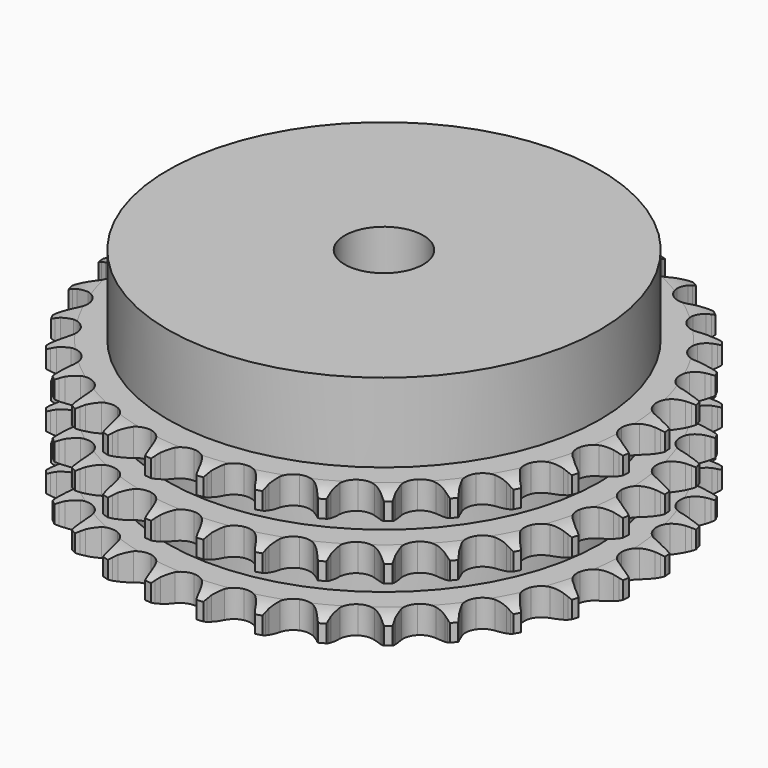
from build123d import *

# Parameters (mm, degrees)
PAD_DEPTH         = 34.9
SKETCH001_R       = 55
PAD001_DEPTH      = 55
SKETCH002_R       = 10
POCKET_DEPTH      = 0.001
POCKET_DEPTH_BACK = 55.001


with BuildPart() as part:
    # Sprocket → Pad (new body)
    with BuildSketch(Plane.XY):
        with BuildLine():
            ThreePointArc((-6.722983, 68.259588), (-5.947068, 67.220529), (-5.378585, 66.054975))
            Line((-5.378585, 66.054975), (-4.96346, 64.952015))
            ThreePointArc((-4.96346, 64.952015), (-4.305248, 63.520135), (-3.451269, 62.195655))
            ThreePointArc((-3.451269, 62.195655), (-1.929275, 60.925607), (0, 60.470212))
            ThreePointArc((0, 60.470212), (1.929275, 60.925607), (3.451269, 62.195655))
            ThreePointArc((3.451269, 62.195655), (4.305248, 63.520135), (4.96346, 64.952015))
            Line((4.96346, 64.952015), (5.378585, 66.054975))
            ThreePointArc((5.378585, 66.054975), (5.947068, 67.220529), (6.722983, 68.259588))
            ThreePointArc((6.722983, 68.259588), (7.281278, 67.089121), (7.611449, 65.835057))
            Line((7.611449, 65.835057), (7.803421, 64.672304))
            ThreePointArc((7.803421, 64.672304), (8.16964, 63.139526), (8.748816, 61.673892))
            ThreePointArc((8.748816, 61.673892), (9.993791, 60.131322), (11.797153, 59.308294))
            ThreePointArc((11.797153, 59.308294), (13.778201, 59.378556), (15.518725, 60.327274))
            Line((15.518725, 60.327274), (17.539599, 62.735657))
            ThreePointArc((17.539599, 62.735657), (17.837497, 63.244296), (18.161923, 63.736437))
            ThreePointArc((18.161923, 63.736437), (18.946871, 64.76869), (19.910587, 65.63641))
            ThreePointArc((19.910587, 65.63641), (20.229809, 64.379515), (20.30898, 63.085135))
            Line((20.30898, 63.085135), (20.270421, 61.907272))
            ThreePointArc((20.270421, 61.907272), (20.330573, 60.3325), (20.61269, 58.782036))
            ThreePointArc((20.61269, 58.782036), (21.532803, 57.026223), (23.140948, 55.867192))
            ThreePointArc((23.140948, 55.867192), (25.097638, 55.54962), (26.989804, 56.140549))
            Line((26.989804, 56.140549), (29.4417, 58.108403))
            ThreePointArc((29.4417, 58.108403), (29.833104, 58.549151), (30.247309, 58.968544))
            ThreePointArc((30.247309, 58.968544), (31.218557, 59.827827), (32.333039, 60.490862))
            ThreePointArc((32.333039, 60.490862), (32.400919, 59.195841), (32.226048, 57.910886))
            Line((32.226048, 57.910886), (31.95844, 56.763178))
            ThreePointArc((31.95844, 56.763178), (31.710214, 55.206929), (31.684429, 53.63122))
            ThreePointArc((31.684429, 53.63122), (32.24432, 51.729639), (33.59545, 50.279144))
            ThreePointArc((33.59545, 50.279144), (35.452588, 49.585943), (37.42368, 49.796375))
            Line((37.42368, 49.796375), (40.212373, 51.248076))
            ThreePointArc((40.212373, 51.248076), (40.682242, 51.603996), (41.170308, 51.934523))
            ThreePointArc((41.170308, 51.934523), (42.290531, 52.587813), (43.512951, 53.020684))
            ThreePointArc((43.512951, 53.020684), (43.32688, 51.737304), (42.904687, 50.511155))
            Line((42.904687, 50.511155), (42.418314, 49.437707))
            ThreePointArc((42.418314, 49.437707), (41.871248, 47.959788), (41.538553, 46.419386))
            ThreePointArc((41.538553, 46.419386), (41.716706, 44.445114), (42.758897, 42.758897))
            ThreePointArc((42.758897, 42.758897), (44.445114, 41.716706), (46.419386, 41.538553))
            Line((46.419386, 41.538553), (49.437707, 42.418314))
            ThreePointArc((49.437707, 42.418314), (49.967985, 42.675728), (50.511155, 42.904687))
            ThreePointArc((50.511155, 42.904687), (51.737304, 43.32688), (53.020684, 43.512951))
            ThreePointArc((53.020684, 43.512951), (52.587813, 42.290531), (51.934523, 41.170308))
            Line((51.934523, 41.170308), (51.248076, 40.212373))
            ThreePointArc((51.248076, 40.212373), (50.423195, 38.869579), (49.796375, 37.42368))
            ThreePointArc((49.796375, 37.42368), (49.585943, 35.452588), (50.279144, 33.59545))
            ThreePointArc((50.279144, 33.59545), (51.729639, 32.24432), (53.63122, 31.684429))
            Line((53.63122, 31.684429), (56.763178, 31.95844))
            ThreePointArc((56.763178, 31.95844), (57.333485, 32.107455), (57.910886, 32.226048))
            ThreePointArc((57.910886, 32.226048), (59.195841, 32.400919), (60.490862, 32.333039))
            ThreePointArc((60.490862, 32.333039), (59.827827, 31.218557), (58.968544, 30.247309))
            Line((58.968544, 30.247309), (58.108403, 29.4417))
            ThreePointArc((58.108403, 29.4417), (57.037406, 28.285633), (56.140549, 26.989804))
            ThreePointArc((56.140549, 26.989804), (55.54962, 25.097638), (55.867192, 23.140948))
            ThreePointArc((55.867192, 23.140948), (57.026223, 21.532803), (58.782036, 20.61269))
            Line((58.782036, 20.61269), (61.907272, 20.270421))
            ThreePointArc((61.907272, 20.270421), (62.495692, 20.305312), (63.085135, 20.30898))
            ThreePointArc((63.085135, 20.30898), (64.379515, 20.229809), (65.63641, 19.910587))
            ThreePointArc((65.63641, 19.910587), (64.76869, 18.946871), (63.736437, 18.161923))
            Line((63.736437, 18.161923), (62.735657, 17.539599))
            ThreePointArc((62.735657, 17.539599), (61.459701, 16.614687), (60.327274, 15.518725))
            ThreePointArc((60.327274, 15.518725), (59.378556, 13.778201), (59.308294, 11.797153))
            ThreePointArc((59.308294, 11.797153), (60.131322, 9.993791), (61.673892, 8.748816))
            Line((61.673892, 8.748816), (64.672304, 7.803421))
            ThreePointArc((64.672304, 7.803421), (65.256225, 7.722846), (65.835057, 7.611449))
            ThreePointArc((65.835057, 7.611449), (67.089121, 7.281278), (68.259588, 6.722983))
            ThreePointArc((68.259588, 6.722983), (67.220529, 5.947068), (66.054975, 5.378585))
            Line((66.054975, 5.378585), (64.952015, 4.96346))
            ThreePointArc((64.952015, 4.96346), (63.520135, 4.305248), (62.195655, 3.451269))
            ThreePointArc((62.195655, 3.451269), (60.925607, 1.929275), (60.470212, 0))
            ThreePointArc((60.470212, 0), (60.925607, -1.929275), (62.195655, -3.451269))
            Line((62.195655, -3.451269), (64.952015, -4.96346))
            ThreePointArc((64.952015, -4.96346), (65.508997, -5.156404), (66.054975, -5.378585))
            ThreePointArc((66.054975, -5.378585), (67.220529, -5.947068), (68.259588, -6.722983))
            ThreePointArc((68.259588, -6.722983), (67.089121, -7.281278), (65.835057, -7.611449))
            Line((65.835057, -7.611449), (64.672304, -7.803421))
            ThreePointArc((64.672304, -7.803421), (63.139526, -8.16964), (61.673892, -8.748816))
            ThreePointArc((61.673892, -8.748816), (60.131322, -9.993791), (59.308294, -11.797153))
            ThreePointArc((59.308294, -11.797153), (59.378556, -13.778201), (60.327274, -15.518725))
            Line((60.327274, -15.518725), (62.735657, -17.539599))
            ThreePointArc((62.735657, -17.539599), (63.244296, -17.837497), (63.736437, -18.161923))
            ThreePointArc((63.736437, -18.161923), (64.76869, -18.946871), (65.63641, -19.910587))
            ThreePointArc((65.63641, -19.910587), (64.379515, -20.229809), (63.085135, -20.30898))
            Line((63.085135, -20.30898), (61.907272, -20.270421))
            ThreePointArc((61.907272, -20.270421), (60.3325, -20.330573), (58.782036, -20.61269))
            ThreePointArc((58.782036, -20.61269), (57.026223, -21.532803), (55.867192, -23.140948))
            ThreePointArc((55.867192, -23.140948), (55.54962, -25.097638), (56.140549, -26.989804))
            Line((56.140549, -26.989804), (58.108403, -29.4417))
            ThreePointArc((58.108403, -29.4417), (58.549151, -29.833104), (58.968544, -30.247309))
            ThreePointArc((58.968544, -30.247309), (59.827827, -31.218557), (60.490862, -32.333039))
            ThreePointArc((60.490862, -32.333039), (59.195841, -32.400919), (57.910886, -32.226048))
            Line((57.910886, -32.226048), (56.763178, -31.95844))
            ThreePointArc((56.763178, -31.95844), (55.206929, -31.710214), (53.63122, -31.684429))
            ThreePointArc((53.63122, -31.684429), (51.729639, -32.24432), (50.279144, -33.59545))
            ThreePointArc((50.279144, -33.59545), (49.585943, -35.452588), (49.796375, -37.42368))
            Line((49.796375, -37.42368), (51.248076, -40.212373))
            ThreePointArc((51.248076, -40.212373), (51.603996, -40.682242), (51.934523, -41.170308))
            ThreePointArc((51.934523, -41.170308), (52.587813, -42.290531), (53.020684, -43.512951))
            ThreePointArc((53.020684, -43.512951), (51.737304, -43.32688), (50.511155, -42.904687))
            Line((50.511155, -42.904687), (49.437707, -42.418314))
            ThreePointArc((49.437707, -42.418314), (47.959788, -41.871248), (46.419386, -41.538553))
            ThreePointArc((46.419386, -41.538553), (44.445114, -41.716706), (42.758897, -42.758897))
            ThreePointArc((42.758897, -42.758897), (41.716706, -44.445114), (41.538553, -46.419386))
            Line((41.538553, -46.419386), (42.418314, -49.437707))
            ThreePointArc((42.418314, -49.437707), (42.675728, -49.967985), (42.904687, -50.511155))
            ThreePointArc((42.904687, -50.511155), (43.32688, -51.737304), (43.512951, -53.020684))
            ThreePointArc((43.512951, -53.020684), (42.290531, -52.587813), (41.170308, -51.934523))
            Line((41.170308, -51.934523), (40.212373, -51.248076))
            ThreePointArc((40.212373, -51.248076), (38.869579, -50.423195), (37.42368, -49.796375))
            ThreePointArc((37.42368, -49.796375), (35.452588, -49.585943), (33.59545, -50.279144))
            ThreePointArc((33.59545, -50.279144), (32.24432, -51.729639), (31.684429, -53.63122))
            Line((31.684429, -53.63122), (31.95844, -56.763178))
            ThreePointArc((31.95844, -56.763178), (32.107455, -57.333485), (32.226048, -57.910886))
            ThreePointArc((32.226048, -57.910886), (32.400919, -59.195841), (32.333039, -60.490862))
            ThreePointArc((32.333039, -60.490862), (31.218557, -59.827827), (30.247309, -58.968544))
            Line((30.247309, -58.968544), (29.4417, -58.108403))
            ThreePointArc((29.4417, -58.108403), (28.285633, -57.037406), (26.989804, -56.140549))
            ThreePointArc((26.989804, -56.140549), (25.097638, -55.54962), (23.140948, -55.867192))
            ThreePointArc((23.140948, -55.867192), (21.532803, -57.026223), (20.61269, -58.782036))
            Line((20.61269, -58.782036), (20.270421, -61.907272))
            ThreePointArc((20.270421, -61.907272), (20.305312, -62.495692), (20.30898, -63.085135))
            ThreePointArc((20.30898, -63.085135), (20.229809, -64.379515), (19.910587, -65.63641))
            ThreePointArc((19.910587, -65.63641), (18.946871, -64.76869), (18.161923, -63.736437))
            Line((18.161923, -63.736437), (17.539599, -62.735657))
            ThreePointArc((17.539599, -62.735657), (16.614687, -61.459701), (15.518725, -60.327274))
            ThreePointArc((15.518725, -60.327274), (13.778201, -59.378556), (11.797153, -59.308294))
            ThreePointArc((11.797153, -59.308294), (9.993791, -60.131322), (8.748816, -61.673892))
            Line((8.748816, -61.673892), (7.803421, -64.672304))
            ThreePointArc((7.803421, -64.672304), (7.722846, -65.256225), (7.611449, -65.835057))
            ThreePointArc((7.611449, -65.835057), (7.281278, -67.089121), (6.722983, -68.259588))
            ThreePointArc((6.722983, -68.259588), (5.947068, -67.220529), (5.378585, -66.054975))
            Line((5.378585, -66.054975), (4.96346, -64.952015))
            ThreePointArc((4.96346, -64.952015), (4.305248, -63.520135), (3.451269, -62.195655))
            ThreePointArc((3.451269, -62.195655), (1.929275, -60.925607), (0, -60.470212))
            ThreePointArc((0, -60.470212), (-1.929275, -60.925607), (-3.451269, -62.195655))
            Line((-3.451269, -62.195655), (-4.96346, -64.952015))
            ThreePointArc((-4.96346, -64.952015), (-5.156404, -65.508997), (-5.378585, -66.054975))
            ThreePointArc((-5.378585, -66.054975), (-5.947068, -67.220529), (-6.722983, -68.259588))
            ThreePointArc((-6.722983, -68.259588), (-7.281278, -67.089121), (-7.611449, -65.835057))
            Line((-7.611449, -65.835057), (-7.803421, -64.672304))
            ThreePointArc((-7.803421, -64.672304), (-8.16964, -63.139526), (-8.748816, -61.673892))
            ThreePointArc((-8.748816, -61.673892), (-9.993791, -60.131322), (-11.797153, -59.308294))
            ThreePointArc((-11.797153, -59.308294), (-13.778201, -59.378556), (-15.518725, -60.327274))
            Line((-15.518725, -60.327274), (-17.539599, -62.735657))
            ThreePointArc((-17.539599, -62.735657), (-17.837497, -63.244296), (-18.161923, -63.736437))
            ThreePointArc((-18.161923, -63.736437), (-18.946871, -64.76869), (-19.910587, -65.63641))
            ThreePointArc((-19.910587, -65.63641), (-20.229809, -64.379515), (-20.30898, -63.085135))
            Line((-20.30898, -63.085135), (-20.270421, -61.907272))
            ThreePointArc((-20.270421, -61.907272), (-20.330573, -60.3325), (-20.61269, -58.782036))
            ThreePointArc((-20.61269, -58.782036), (-21.532803, -57.026223), (-23.140948, -55.867192))
            ThreePointArc((-23.140948, -55.867192), (-25.097638, -55.54962), (-26.989804, -56.140549))
            Line((-26.989804, -56.140549), (-29.4417, -58.108403))
            ThreePointArc((-29.4417, -58.108403), (-29.833104, -58.549151), (-30.247309, -58.968544))
            ThreePointArc((-30.247309, -58.968544), (-31.218557, -59.827827), (-32.333039, -60.490862))
            ThreePointArc((-32.333039, -60.490862), (-32.400919, -59.195841), (-32.226048, -57.910886))
            Line((-32.226048, -57.910886), (-31.95844, -56.763178))
            ThreePointArc((-31.95844, -56.763178), (-31.710214, -55.206929), (-31.684429, -53.63122))
            ThreePointArc((-31.684429, -53.63122), (-32.24432, -51.729639), (-33.59545, -50.279144))
            ThreePointArc((-33.59545, -50.279144), (-35.452588, -49.585943), (-37.42368, -49.796375))
            Line((-37.42368, -49.796375), (-40.212373, -51.248076))
            ThreePointArc((-40.212373, -51.248076), (-40.682242, -51.603996), (-41.170308, -51.934523))
            ThreePointArc((-41.170308, -51.934523), (-42.290531, -52.587813), (-43.512951, -53.020684))
            ThreePointArc((-43.512951, -53.020684), (-43.32688, -51.737304), (-42.904687, -50.511155))
            Line((-42.904687, -50.511155), (-42.418314, -49.437707))
            ThreePointArc((-42.418314, -49.437707), (-41.871248, -47.959788), (-41.538553, -46.419386))
            ThreePointArc((-41.538553, -46.419386), (-41.716706, -44.445114), (-42.758897, -42.758897))
            ThreePointArc((-42.758897, -42.758897), (-44.445114, -41.716706), (-46.419386, -41.538553))
            Line((-46.419386, -41.538553), (-49.437707, -42.418314))
            ThreePointArc((-49.437707, -42.418314), (-49.967985, -42.675728), (-50.511155, -42.904687))
            ThreePointArc((-50.511155, -42.904687), (-51.737304, -43.32688), (-53.020684, -43.512951))
            ThreePointArc((-53.020684, -43.512951), (-52.587813, -42.290531), (-51.934523, -41.170308))
            Line((-51.934523, -41.170308), (-51.248076, -40.212373))
            ThreePointArc((-51.248076, -40.212373), (-50.423195, -38.869579), (-49.796375, -37.42368))
            ThreePointArc((-49.796375, -37.42368), (-49.585943, -35.452588), (-50.279144, -33.59545))
            ThreePointArc((-50.279144, -33.59545), (-51.729639, -32.24432), (-53.63122, -31.684429))
            Line((-53.63122, -31.684429), (-56.763178, -31.95844))
            ThreePointArc((-56.763178, -31.95844), (-57.333485, -32.107455), (-57.910886, -32.226048))
            ThreePointArc((-57.910886, -32.226048), (-59.195841, -32.400919), (-60.490862, -32.333039))
            ThreePointArc((-60.490862, -32.333039), (-59.827827, -31.218557), (-58.968544, -30.247309))
            Line((-58.968544, -30.247309), (-58.108403, -29.4417))
            ThreePointArc((-58.108403, -29.4417), (-57.037406, -28.285633), (-56.140549, -26.989804))
            ThreePointArc((-56.140549, -26.989804), (-55.54962, -25.097638), (-55.867192, -23.140948))
            ThreePointArc((-55.867192, -23.140948), (-57.026223, -21.532803), (-58.782036, -20.61269))
            Line((-58.782036, -20.61269), (-61.907272, -20.270421))
            ThreePointArc((-61.907272, -20.270421), (-62.495692, -20.305312), (-63.085135, -20.30898))
            ThreePointArc((-63.085135, -20.30898), (-64.379515, -20.229809), (-65.63641, -19.910587))
            ThreePointArc((-65.63641, -19.910587), (-64.76869, -18.946871), (-63.736437, -18.161923))
            Line((-63.736437, -18.161923), (-62.735657, -17.539599))
            ThreePointArc((-62.735657, -17.539599), (-61.459701, -16.614687), (-60.327274, -15.518725))
            ThreePointArc((-60.327274, -15.518725), (-59.378556, -13.778201), (-59.308294, -11.797153))
            ThreePointArc((-59.308294, -11.797153), (-60.131322, -9.993791), (-61.673892, -8.748816))
            Line((-61.673892, -8.748816), (-64.672304, -7.803421))
            ThreePointArc((-64.672304, -7.803421), (-65.256225, -7.722846), (-65.835057, -7.611449))
            ThreePointArc((-65.835057, -7.611449), (-67.089121, -7.281278), (-68.259588, -6.722983))
            ThreePointArc((-68.259588, -6.722983), (-67.220529, -5.947068), (-66.054975, -5.378585))
            Line((-66.054975, -5.378585), (-64.952015, -4.96346))
            ThreePointArc((-64.952015, -4.96346), (-63.520135, -4.305248), (-62.195655, -3.451269))
            ThreePointArc((-62.195655, -3.451269), (-60.925607, -1.929275), (-60.470212, 0))
            ThreePointArc((-60.470212, 0), (-60.925607, 1.929275), (-62.195655, 3.451269))
            Line((-62.195655, 3.451269), (-64.952015, 4.96346))
            ThreePointArc((-64.952015, 4.96346), (-65.508997, 5.156404), (-66.054975, 5.378585))
            ThreePointArc((-66.054975, 5.378585), (-67.220529, 5.947068), (-68.259588, 6.722983))
            ThreePointArc((-68.259588, 6.722983), (-67.089121, 7.281278), (-65.835057, 7.611449))
            Line((-65.835057, 7.611449), (-64.672304, 7.803421))
            ThreePointArc((-64.672304, 7.803421), (-63.139526, 8.16964), (-61.673892, 8.748816))
            ThreePointArc((-61.673892, 8.748816), (-60.131322, 9.993791), (-59.308294, 11.797153))
            ThreePointArc((-59.308294, 11.797153), (-59.378556, 13.778201), (-60.327274, 15.518725))
            Line((-60.327274, 15.518725), (-62.735657, 17.539599))
            ThreePointArc((-62.735657, 17.539599), (-63.244296, 17.837497), (-63.736437, 18.161923))
            ThreePointArc((-63.736437, 18.161923), (-64.76869, 18.946871), (-65.63641, 19.910587))
            ThreePointArc((-65.63641, 19.910587), (-64.379515, 20.229809), (-63.085135, 20.30898))
            Line((-63.085135, 20.30898), (-61.907272, 20.270421))
            ThreePointArc((-61.907272, 20.270421), (-60.3325, 20.330573), (-58.782036, 20.61269))
            ThreePointArc((-58.782036, 20.61269), (-57.026223, 21.532803), (-55.867192, 23.140948))
            ThreePointArc((-55.867192, 23.140948), (-55.54962, 25.097638), (-56.140549, 26.989804))
            Line((-56.140549, 26.989804), (-58.108403, 29.4417))
            ThreePointArc((-58.108403, 29.4417), (-58.549151, 29.833104), (-58.968544, 30.247309))
            ThreePointArc((-58.968544, 30.247309), (-59.827827, 31.218557), (-60.490862, 32.333039))
            ThreePointArc((-60.490862, 32.333039), (-59.195841, 32.400919), (-57.910886, 32.226048))
            Line((-57.910886, 32.226048), (-56.763178, 31.95844))
            ThreePointArc((-56.763178, 31.95844), (-55.206929, 31.710214), (-53.63122, 31.684429))
            ThreePointArc((-53.63122, 31.684429), (-51.729639, 32.24432), (-50.279144, 33.59545))
            ThreePointArc((-50.279144, 33.59545), (-49.585943, 35.452588), (-49.796375, 37.42368))
            Line((-49.796375, 37.42368), (-51.248076, 40.212373))
            ThreePointArc((-51.248076, 40.212373), (-51.603996, 40.682242), (-51.934523, 41.170308))
            ThreePointArc((-51.934523, 41.170308), (-52.587813, 42.290531), (-53.020684, 43.512951))
            ThreePointArc((-53.020684, 43.512951), (-51.737304, 43.32688), (-50.511155, 42.904687))
            Line((-50.511155, 42.904687), (-49.437707, 42.418314))
            ThreePointArc((-49.437707, 42.418314), (-47.959788, 41.871248), (-46.419386, 41.538553))
            ThreePointArc((-46.419386, 41.538553), (-44.445114, 41.716706), (-42.758897, 42.758897))
            ThreePointArc((-42.758897, 42.758897), (-41.716706, 44.445114), (-41.538553, 46.419386))
            Line((-41.538553, 46.419386), (-42.418314, 49.437707))
            ThreePointArc((-42.418314, 49.437707), (-42.675728, 49.967985), (-42.904687, 50.511155))
            ThreePointArc((-42.904687, 50.511155), (-43.32688, 51.737304), (-43.512951, 53.020684))
            ThreePointArc((-43.512951, 53.020684), (-42.290531, 52.587813), (-41.170308, 51.934523))
            Line((-41.170308, 51.934523), (-40.212373, 51.248076))
            ThreePointArc((-40.212373, 51.248076), (-38.869579, 50.423195), (-37.42368, 49.796375))
            ThreePointArc((-37.42368, 49.796375), (-35.452588, 49.585943), (-33.59545, 50.279144))
            ThreePointArc((-33.59545, 50.279144), (-32.24432, 51.729639), (-31.684429, 53.63122))
            Line((-31.684429, 53.63122), (-31.95844, 56.763178))
            ThreePointArc((-31.95844, 56.763178), (-32.107455, 57.333485), (-32.226048, 57.910886))
            ThreePointArc((-32.226048, 57.910886), (-32.400919, 59.195841), (-32.333039, 60.490862))
            ThreePointArc((-32.333039, 60.490862), (-31.218557, 59.827827), (-30.247309, 58.968544))
            Line((-30.247309, 58.968544), (-29.4417, 58.108403))
            ThreePointArc((-29.4417, 58.108403), (-28.285633, 57.037406), (-26.989804, 56.140549))
            ThreePointArc((-26.989804, 56.140549), (-25.097638, 55.54962), (-23.140948, 55.867192))
            ThreePointArc((-23.140948, 55.867192), (-21.532803, 57.026223), (-20.61269, 58.782036))
            Line((-20.61269, 58.782036), (-20.270421, 61.907272))
            ThreePointArc((-20.270421, 61.907272), (-20.305312, 62.495692), (-20.30898, 63.085135))
            ThreePointArc((-20.30898, 63.085135), (-20.229809, 64.379515), (-19.910587, 65.63641))
            ThreePointArc((-19.910587, 65.63641), (-18.946871, 64.76869), (-18.161923, 63.736437))
            Line((-18.161923, 63.736437), (-17.539599, 62.735657))
            ThreePointArc((-17.539599, 62.735657), (-16.614687, 61.459701), (-15.518725, 60.327274))
            ThreePointArc((-15.518725, 60.327274), (-13.778201, 59.378556), (-11.797153, 59.308294))
            ThreePointArc((-11.797153, 59.308294), (-9.993791, 60.131322), (-8.748816, 61.673892))
            Line((-8.748816, 61.673892), (-7.803421, 64.672304))
            ThreePointArc((-7.803421, 64.672304), (-7.722846, 65.256225), (-7.611449, 65.835057))
            ThreePointArc((-7.611449, 65.835057), (-7.281278, 67.089121), (-6.722983, 68.259588))
        make_face()
    extrude(amount=PAD_DEPTH)

    # Sketch → Groove (revolve, cut)
    with BuildSketch(Plane.XZ):
        with BuildLine():
            ThreePointArc((61.483431, 0), (64.39032, 0.329167), (67.15, 1.3))
            Line((67.15, 1.3), (67.15, 5.7))
            ThreePointArc((67.15, 5.7), (64.39032, 6.670833), (61.483431, 7))
            Line((55, 7), (61.483431, 7))
            Line((55, 7), (55, 13.95))
            Line((55, 13.95), (61.483431, 13.95))
            ThreePointArc((61.483431, 13.95), (64.39032, 14.279167), (67.15, 15.25))
            Line((67.15, 19.65), (67.15, 15.25))
            ThreePointArc((67.15, 19.65), (64.39032, 20.620833), (61.483431, 20.95))
            Line((55, 20.95), (61.483431, 20.95))
            Line((55, 27.9), (55, 20.95))
            Line((61.483431, 27.9), (55, 27.9))
            ThreePointArc((61.483431, 27.9), (64.39032, 28.229167), (67.15, 29.2))
            Line((67.15, 29.2), (67.15, 33.6))
            ThreePointArc((67.15, 33.6), (64.39032, 34.570833), (61.483431, 34.9))
            Line((61.483431, 34.9), (77.15, 34.9))
            Line((77.15, 34.9), (77.15, 0))
            Line((61.483431, 0), (77.15, 0))
        make_face()
    revolve(axis=Axis((0, 0, 0), (0, 0, 1)), mode=Mode.SUBTRACT)

    # Sketch001 → Pad001 (join)
    with BuildSketch(Plane.XY):
        Circle(SKETCH001_R)
    extrude(amount=PAD001_DEPTH)

    # Sketch002 → Pocket (cut, two sides)
    with BuildSketch(Plane.XY) as pocket_sk:
        Circle(SKETCH002_R)
    extrude(amount=-POCKET_DEPTH, mode=Mode.SUBTRACT)
    extrude(pocket_sk.sketch, amount=POCKET_DEPTH_BACK, mode=Mode.SUBTRACT)


solid = part.part
